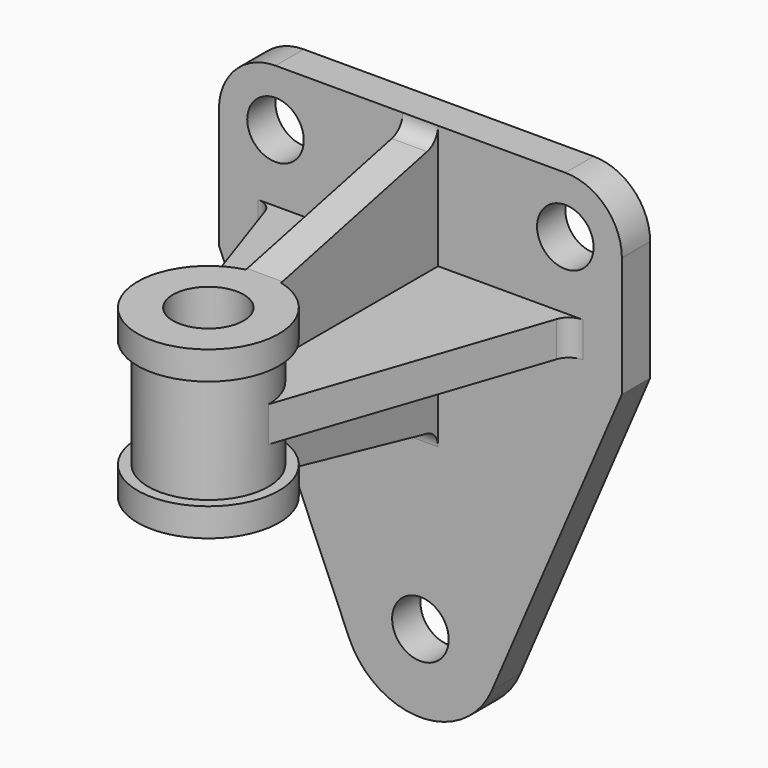
from build123d import *

# Parameters (mm, degrees)
F0_R      = 8
F1_DEPTH  = 10
F2_R      = 16
F3_R      = 8
F4_DEPTH  = 10.001
F6_DEPTH  = 75
F8_DEPTH  = 62.001
F9_R      = 20
F10_DEPTH = 8
F11_R     = 20
F12_DEPTH = 8
F13_R     = 17
F14_DEPTH = 38
F15_R     = 10
F16_DEPTH = 114.001
F17_W     = 12
F17_H     = 10
F18_DEPTH = 75
F19_R     = 10
F20_DEPTH = 132.536
F22_DEPTH = 10


with BuildPart() as f1:
    # F0 (on Front) → F1 (new body)
    with BuildSketch(Plane.XZ):
        with BuildLine():
            Line((59.051879, 108.007187), (-54.948121, 108.007187))
            Line((-54.948121, 108.007187), (-54.948121, 58.007187))
            Line((-54.948121, 58.007187), (-18.163779, -27.671937))
            ThreePointArc((-18.163779, -27.671937), (2.051879, -40.992813), (22.267536, -27.671937))
            Line((22.267536, -27.671937), (59.051879, 58.007187))
            Line((59.051879, 58.007187), (59.051879, 108.007187))
        make_face()
        with Locations((2.051879, -18.992813)):
            Circle(F0_R, mode=Mode.SUBTRACT)
    extrude(amount=F1_DEPTH)

    # F2
    f2_edges = [f1.edges().sort_by_distance(p)[0] for p in [
        (-54.948121, -5, 108.007187),
        (59.051879, -5, 108.007187),
    ]]
    fillet(f2_edges, radius=F2_R)

    # F3 (on face) → F4 (cut, through all)
    with BuildSketch(Plane(origin=(0, 0, 0), x_dir=(-1, 0, 0), z_dir=(0, 1, 0))):
        with Locations((-43.051879, 92.007187)):
            Circle(F3_R)
        with Locations((38.948121, 92.007187)):
            Circle(F3_R)
    extrude(amount=-F4_DEPTH, mode=Mode.SUBTRACT)

    # F5 (on face) → F6 (join)
    with BuildSketch(Plane.XZ.offset(10)):
        Polygon((7.051879, 108.007187), (2.051879, 108.007187), (-2.948121, 108.007187), (-2.948121, 28.007187), (7.051879, 28.007187), align=None)
    extrude(amount=F6_DEPTH)

    # F7 (on face) → F8 (cut, through all)
    with BuildSketch(Plane(origin=(-2.948121, 0, 0), x_dir=(0, -1, 0), z_dir=(-1, 0, 0))):
        with BuildLine():
            Line((85, 108.007187), (10, 108.007187))
            ThreePointArc((10, 108.007187), (11.093214, 104.886516), (13.894876, 103.130274))
            Line((13.894876, 103.130274), (65, 91.542187))
            Line((65, 91.542187), (85, 91.542187))
            Line((85, 91.542187), (85, 108.007187))
        make_face()
        with BuildLine():
            ThreePointArc((13.894876, 32.8841), (11.093214, 31.127858), (10, 28.007187))
            Line((10, 28.007187), (85, 28.007187))
            Line((85, 28.007187), (85, 44.472187))
            Line((85, 44.472187), (65, 44.472187))
            Line((65, 44.472187), (13.894876, 32.8841))
        make_face()
    extrude(amount=-F8_DEPTH, mode=Mode.SUBTRACT)

    # F9 (on face) → F10 (join)
    with BuildSketch(Plane.XY.offset(91.542187)):
        with Locations((2.051879, -85)):
            Circle(F9_R)
    extrude(amount=-F10_DEPTH)

    # F11 (on face) → F12 (join)
    with BuildSketch(Plane(origin=(0, 0, 44.472187), x_dir=(1, 0, 0), z_dir=(0, 0, -1))):
        with Locations((2.051879, 85)):
            Circle(F11_R)
    extrude(amount=-F12_DEPTH)

    # F13 (on face) → F14 (join)
    with BuildSketch(Plane.XY.offset(52.472187)):
        with Locations((2.051879, -85)):
            Circle(F13_R)
    extrude(amount=F14_DEPTH)

    # F15 (on face) → F16 (cut, through all)
    with BuildSketch(Plane.XY.offset(73.007187)):
        with Locations((2.051879, -85)):
            Circle(F15_R)
    extrude(amount=-F16_DEPTH, mode=Mode.SUBTRACT)

    # F17 (on face) → F18 (join)
    with BuildSketch(Plane.XZ.offset(10)):
        Polygon((-43.948121, 73.007187), (-43.948121, 68.007187), (-43.948121, 63.007187), (-14.948121, 63.007187), (-14.948121, 73.007187), align=None)
        with Locations((-8.948121, 68.007187)):
            Rectangle(F17_W, F17_H)
        Polygon((19.051879, 63.007187), (48.051879, 63.007187), (48.051879, 73.007187), (19.051879, 73.007187), (7.051879, 73.007187), (7.051879, 63.007187), align=None)
    extrude(amount=F18_DEPTH)

    # F19 (on face) → F20 (cut, through all)
    with BuildSketch(Plane.XY.offset(91.542187)):
        with Locations((2.051879, -85)):
            Circle(F19_R)
    extrude(amount=-F20_DEPTH, mode=Mode.SUBTRACT)

    # F21 (on face) → F22 (cut)
    with BuildSketch(Plane.XY.offset(73.007187)):
        with BuildLine():
            Line((48.051879, -85), (48.051879, -10))
            ThreePointArc((48.051879, -10), (45.138421, -10.936533), (43.316383, -13.395295))
            Line((43.316383, -13.395295), (19.051879, -85))
            Line((19.051879, -85), (48.051879, -85))
        make_face()
        with BuildLine():
            Line((-43.948121, -85), (-14.948121, -85))
            Line((-14.948121, -85), (-39.212626, -13.395295))
            ThreePointArc((-39.212626, -13.395295), (-41.034663, -10.936533), (-43.948121, -10))
            Line((-43.948121, -10), (-43.948121, -85))
        make_face()
    extrude(amount=-F22_DEPTH, mode=Mode.SUBTRACT)


solid = f1.part
